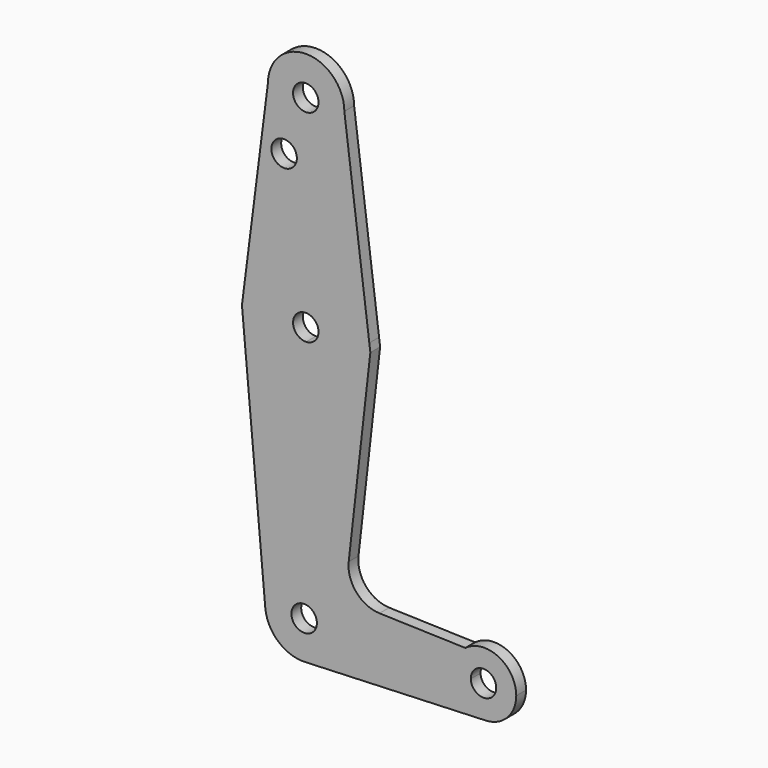
from build123d import *

# Parameters (mm, degrees)
F0_R     = 3.175
F1_DEPTH = 3.048


with BuildPart() as f1:
    # F0 (on Front) → F1 (new body)
    with BuildSketch(Plane.XZ):
        with BuildLine():
            ThreePointArc((0, -2.8766015808), (-3.2635982736, 0.2971620124), (0, 3.4709256057))
            Line((0, 3.4709256057), (0, 15.8749901004))
            ThreePointArc((0, 15.8749901004), (-10.4918952223, 11.913601197), (-15.7476019291, 2.0065322858))
            ThreePointArc((-15.7476019291, 2.0065322858), (-11.9135847518, -10.4919245087), (0, -15.8750098992))
            Line((0, -15.8750098992), (0, -2.8766015808))
        make_face()
        with BuildLine():
            Line((0, 15.8749901004), (0, 3.4709256057))
            ThreePointArc((0, 3.4709256057), (2.1875744482, 2.5106801941), (3.0864017264, 0.2971620124))
            ThreePointArc((3.0864017264, 0.2971620124), (2.1875744482, -1.9163561693), (0, -2.8766015808))
            Line((0, -2.8766015808), (0, -15.8750098992))
            ThreePointArc((0, -15.8750098992), (11.2253703753, -11.2253575191), (15.8750776924, -9.8994e-06))
            ThreePointArc((15.8750776924, -9.8994e-06), (15.8431590584, 1.0061699208), (15.747531509, 2.0083036452))
            ThreePointArc((15.747531509, 2.0083036452), (10.491322233, 11.9142426155), (0, 15.8749901004))
        make_face()
        with BuildLine():
            ThreePointArc((-15.7476019291, 2.0065322858), (-10.4918952223, 11.913601197), (0, 15.8749901004))
            Line((0, 15.8749901004), (0, 41.275))
            ThreePointArc((0, 41.275), (-6.7504945807, 44.0801452459), (-9.5249014384, 50.8433311461))
            Line((-9.5249014384, 50.8433311461), (-15.7476019291, 2.0065322858))
        make_face()
        with Locations((-5.4904264398, 36.6574451327)):
            Circle(F0_R, mode=Mode.SUBTRACT)
        with BuildLine():
            Line((0, 41.275), (0, 15.8749901004))
            ThreePointArc((0, 15.8749901004), (10.491322233, 11.9142426155), (15.747531509, 2.0083036452))
            Line((15.747531509, 2.0083036452), (9.525, 50.8))
            ThreePointArc((9.525, 50.8), (6.7351920908, 44.0648079092), (0, 41.275))
        make_face()
        with BuildLine():
            ThreePointArc((15.8750776924, -9.8994e-06), (11.2253703753, -11.2253575191), (0, -15.8750098992))
            Line((0, -15.8750098992), (0, -54.2240571164))
            ThreePointArc((0, -54.2240571164), (6.2034967284, -57.1581140139), (8.8250504044, -63.5))
            Line((8.8250504044, -63.5), (36.5125, -63.5))
            ThreePointArc((36.5125, -63.5), (37.3509047062, -59.9494011406), (39.6890045065, -57.1488718986))
            Line((39.6890045065, -57.1488718986), (18.2762879211, -56.5058330852))
            ThreePointArc((18.2762879211, -56.5058330852), (12.5071090556, -53.7661112831), (10.6150505702, -47.6661428387))
            Line((10.6150505702, -47.6661428387), (16.0036556786, 0))
            Line((16.0036556786, 0), (15.747531509, 2.0083036452))
            ThreePointArc((15.747531509, 2.0083036452), (15.8431590584, 1.0061699208), (15.8750776924, -9.8994e-06))
        make_face()
        with BuildLine():
            Line((0, -54.2240571164), (0, -15.8750098992))
            ThreePointArc((0, -15.8750098992), (-11.9135847518, -10.4919245087), (-15.7476019291, 2.0065322858))
            Line((-15.7476019291, 2.0065322858), (-16.0032708044, 0))
            Line((-16.0032708044, 0), (-10.1838874689, -64.5783643789))
            ThreePointArc((-10.1838874689, -64.5783643789), (-7.4881720596, -57.0444215396), (0, -54.2240571164))
        make_face()
        with BuildLine():
            ThreePointArc((-9.5249014384, 50.8433311461), (-6.7504945807, 44.0801452459), (0, 41.275))
            ThreePointArc((0, 41.275), (6.7351920908, 44.0648079092), (9.525, 50.8))
            ThreePointArc((9.525, 50.8), (0.0216656291, 60.3249753596), (-9.5249014384, 50.8433311461))
        make_face()
        with BuildLine():
            ThreePointArc((3.0864017264, 50.6975539029), (2.1875744482, 48.4840357212), (0, 47.5237903096))
            ThreePointArc((0, 47.5237903096), (-2.3647709953, 52.9110720846), (3.0864017264, 50.6975539029))
        make_face(mode=Mode.SUBTRACT)
        with BuildLine():
            Line((0, -60.598008398), (0, -54.2240571164))
            ThreePointArc((0, -54.2240571164), (-7.4881720596, -57.0444215396), (-10.1838874689, -64.5783643789))
            ThreePointArc((-10.1838874689, -64.5783643789), (-6.8613205089, -70.985095451), (0, -73.222937069))
            ThreePointArc((0, -73.222937069), (6.2800529577, -70.2074613128), (8.8276728625, -63.7234970927))
            ThreePointArc((8.8276728625, -63.7234970927), (8.8270172254, -63.6117408538), (8.8250504044, -63.5))
            Line((8.8250504044, -63.5), (2.6692960727, -63.5))
            ThreePointArc((2.6692960727, -63.5), (2.6757633798, -63.6168482324), (2.6779201256, -63.7338554285))
            ThreePointArc((2.6779201256, -63.7338554285), (-2.9115004676, -65.7956988268), (0, -60.598008398))
        make_face()
        with BuildLine():
            Line((36.5125, -63.5), (8.8250504044, -63.5))
            ThreePointArc((8.8250504044, -63.5), (8.8270172254, -63.6117408538), (8.8276728625, -63.7234970927))
            ThreePointArc((8.8276728625, -63.7234970927), (6.2800529577, -70.2074613128), (0, -73.222937069))
            Line((0, -73.222937069), (44.7674390348, -71.4311498983))
            ThreePointArc((44.7674390348, -71.4311498983), (38.9507166871, -69.2237915139), (36.5125, -63.5))
        make_face()
        with BuildLine():
            ThreePointArc((39.6890045065, -57.1488718986), (37.3509047062, -59.9494011406), (36.5125, -63.5))
            ThreePointArc((36.5125, -63.5), (38.9507166871, -69.2237915139), (44.7674390348, -71.4311498983))
            ThreePointArc((44.7674390348, -71.4311498983), (50.1737915139, -68.9992833129), (52.3875, -63.5))
            ThreePointArc((52.3875, -63.5), (48.0005988594, -56.4009047062), (39.6890045065, -57.1488718986))
        make_face()
        with BuildLine():
            ThreePointArc((47.3964347422, -63.4233355522), (44.2597697605, -66.5981041149), (41.0473604579, -63.5))
            ThreePointArc((41.0473604579, -63.5), (44.1830997239, -60.2485669896), (47.3964347422, -63.4233355522))
        make_face(mode=Mode.SUBTRACT)
        with BuildLine():
            ThreePointArc((8.8250504044, -63.5), (6.2034967284, -57.1581140139), (0, -54.2240571164))
            Line((0, -54.2240571164), (0, -60.598008398))
            ThreePointArc((0, -60.598008398), (1.8397162129, -61.5844347981), (2.6692960727, -63.5))
            Line((2.6692960727, -63.5), (8.8250504044, -63.5))
        make_face()
    extrude(amount=F1_DEPTH)


solid = f1.part
